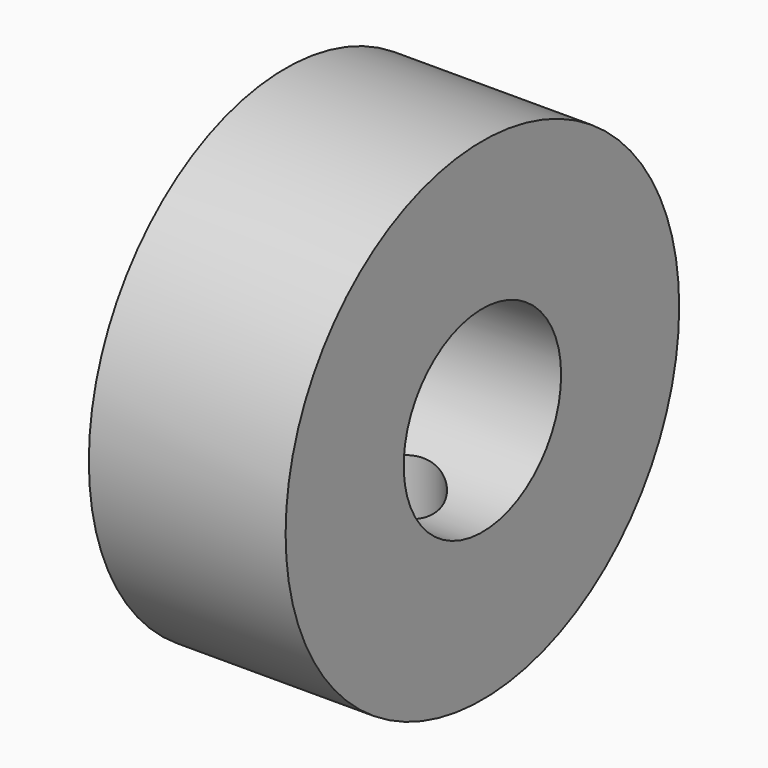
from build123d import *

# Parameters (mm, degrees)
F0_R     = 63.5
F1_DEPTH = 25.4
F2_R     = 12.7
F3_DEPTH = 76.2
F4_R     = 25.4
F5_DEPTH = 31.75


with BuildPart() as f1:
    # F0 (on Right) → F1 (new body, symmetric)
    with BuildSketch(Plane.YZ):
        Circle(F0_R)
    extrude(amount=F1_DEPTH, both=True)

    # F2 (on Top) → F3 (cut)
    with BuildSketch(Plane.XY):
        Circle(F2_R)
    extrude(amount=-F3_DEPTH, mode=Mode.SUBTRACT)

    # F4 (on Right) → F5 (cut, symmetric)
    with BuildSketch(Plane.YZ):
        Circle(F4_R)
    extrude(amount=F5_DEPTH, both=True, mode=Mode.SUBTRACT)


solid = f1.part
